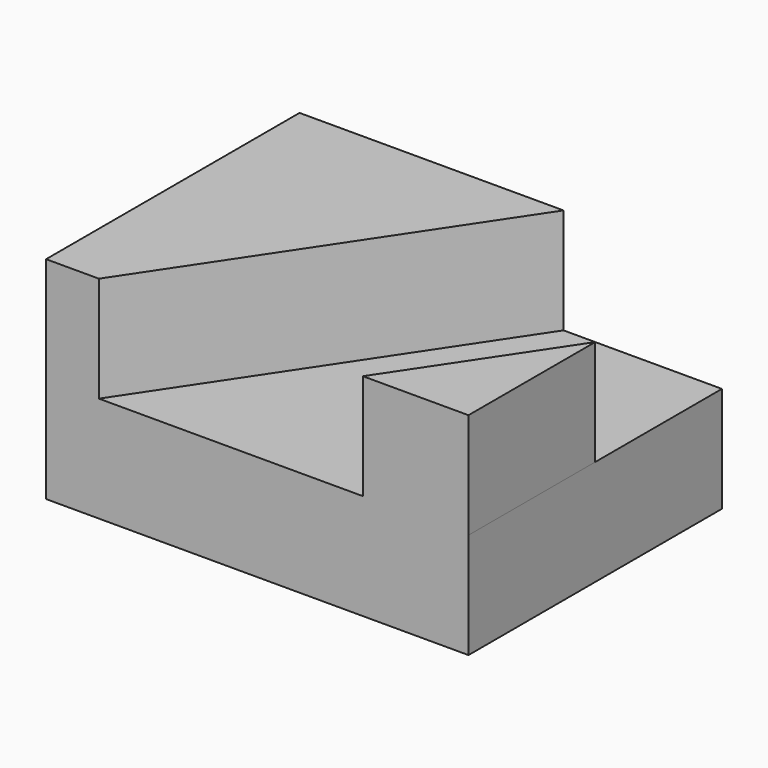
from build123d import *

# Parameters (mm, degrees)
F0_W     = 50.8
F0_H     = 38.1
F1_DEPTH = 12.7
F4_DEPTH = 12.7
F6_DEPTH = 12.7


with BuildPart() as f1:
    # F0 (on Top) → F1 (new body)
    with BuildSketch(Plane.XY):
        with Locations((25.4, 19.05)):
            Rectangle(F0_W, F0_H)
    extrude(amount=F1_DEPTH)

    # F2 (on face) → F4 (join)
    with BuildSketch(Plane.XY.offset(12.7)):
        Polygon((0, 0), (6.35, 0), (31.75, 38.1), (0, 38.1), align=None)
    extrude(amount=F4_DEPTH)

    # F5 (on face) → F6 (join)
    with BuildSketch(Plane.XY.offset(12.7)):
        Polygon((50.79998, 19.05), (38.09998, 0), (50.79998, 0), align=None)
    extrude(amount=F6_DEPTH)


solid = f1.part
